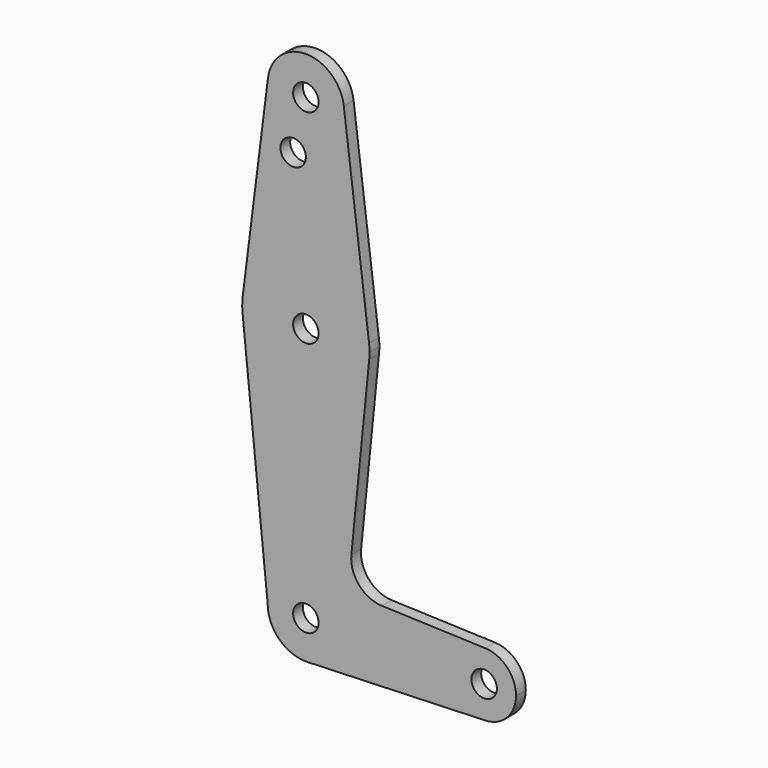
from build123d import *

# Parameters (mm, degrees)
F0_R     = 3.175
F1_DEPTH = 3.048


with BuildPart() as f1:
    # F0 (on Front) → F1 (new body)
    with BuildSketch(Plane.XZ):
        with BuildLine():
            ThreePointArc((0.340179, -9.518923), (6.854408, -6.613827), (9.525, 0))
            ThreePointArc((9.525, 0), (0, 9.525), (-9.525, 0))
            ThreePointArc((-9.525, 0), (-6.613827, -6.854408), (0.340179, -9.518923))
        make_face()
        Circle(F0_R, mode=Mode.SUBTRACT)
        with BuildLine():
            ThreePointArc((44.733482, 7.932436), (36.5125, 0), (44.733482, -7.932436))
            ThreePointArc((44.733482, -7.932436), (50.162007, -5.511523), (52.3875, 0))
            ThreePointArc((52.3875, 0), (50.162007, 5.511523), (44.733482, 7.932436))
        make_face()
        with Locations((44.45, 0)):
            Circle(F0_R, mode=Mode.SUBTRACT)
        with BuildLine():
            ThreePointArc((9.450293, 115.490625), (0, 123.825), (-9.450293, 115.490625))
            ThreePointArc((-9.450293, 115.490625), (-0.596483, 104.793695), (9.525, 114.3))
            ThreePointArc((9.525, 114.3), (9.506305, 114.896483), (9.450293, 115.490625))
        make_face()
        with Locations((0, 114.3)):
            Circle(F0_R, mode=Mode.SUBTRACT)
        with BuildLine():
            ThreePointArc((-9.525, 0), (0, 9.525), (9.525, 0))
            ThreePointArc((9.525, 0), (6.854408, -6.613827), (0.340179, -9.518923))
            Line((0.340179, -9.518923), (44.733482, -7.932436))
            ThreePointArc((44.733482, -7.932436), (36.5125, 0), (44.733482, 7.932436))
            Line((44.733482, 7.932436), (18.9676, 8.853234))
            ThreePointArc((18.9676, 8.853234), (13.2612, 11.571359), (11.341187, 17.593382))
            Line((11.341187, 17.593382), (15.795426, 61.9125))
            ThreePointArc((15.795426, 61.9125), (0.006091, 47.625001), (-15.794203, 61.90038))
            Line((-15.794203, 61.90038), (-9.525, 0))
        make_face()
        with BuildLine():
            ThreePointArc((-15.750488, 65.484375), (-15.873819, 63.693615), (-15.794203, 61.90038))
            ThreePointArc((-15.794203, 61.90038), (0.006091, 47.625001), (15.795426, 61.9125))
            ThreePointArc((15.795426, 61.9125), (15.855094, 62.705253), (15.875, 63.5))
            ThreePointArc((15.875, 63.5), (15.843841, 64.494139), (15.750488, 65.484375))
            ThreePointArc((15.750488, 65.484375), (0, 79.375), (-15.750488, 65.484375))
        make_face()
        with Locations((0, 63.5)):
            Circle(F0_R, mode=Mode.SUBTRACT)
        with BuildLine():
            Line((-9.450293, 115.490625), (-15.750488, 65.484375))
            ThreePointArc((-15.750488, 65.484375), (0, 79.375), (15.750488, 65.484375))
            Line((15.750488, 65.484375), (9.450293, 115.490625))
            ThreePointArc((9.450293, 115.490625), (9.506305, 114.896483), (9.525, 114.3))
            ThreePointArc((9.525, 114.3), (-0.596483, 104.793695), (-9.450293, 115.490625))
        make_face()
        with Locations((-3.175, 101.1682)):
            Circle(F0_R, mode=Mode.SUBTRACT)
    extrude(amount=F1_DEPTH)


solid = f1.part
